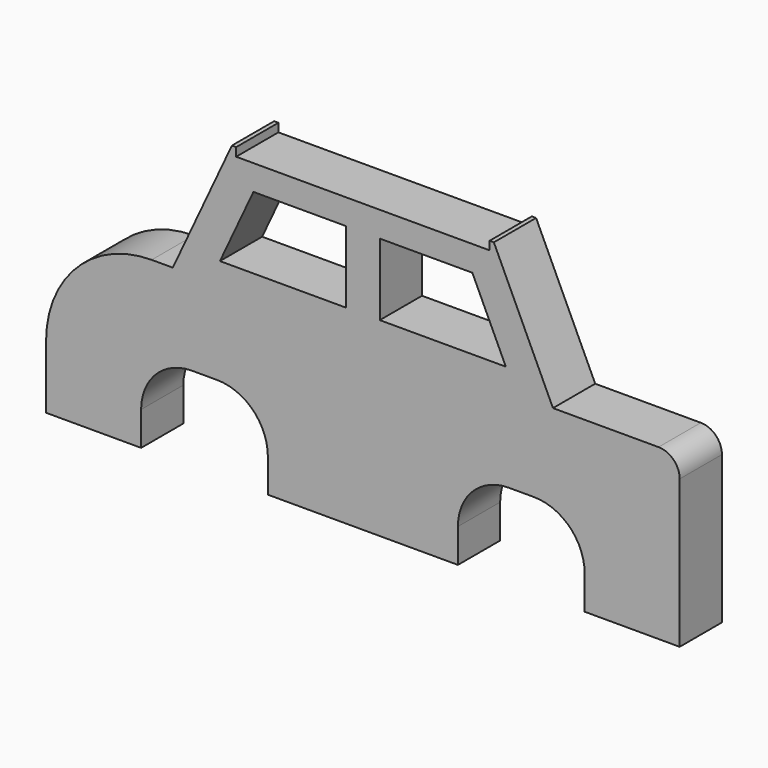
from build123d import *

# Parameters (mm, degrees)
F1_DEPTH = 3.175


with BuildPart() as f1:
    # F0 (on Front) → F1 (new body)
    with BuildSketch(Plane.XZ):
        with BuildLine():
            ThreePointArc((19.05, 3.81), (18.6780256121, 4.7080256121), (17.78, 5.08))
            Line((17.78, 5.08), (11.43, 5.08))
            Line((11.43, 5.08), (-11.43, 5.08))
            Line((-11.43, 5.08), (-12.7, 5.08))
            ThreePointArc((-12.7, 5.08), (-17.1901280605, 3.2201280605), (-19.05, -1.27))
            Line((-19.05, -1.27), (-19.05, -5.08))
            Line((-19.05, -5.08), (-13.335, -5.08))
            Line((-13.335, -5.08), (-13.335, -3.048))
            ThreePointArc((-13.335, -3.048), (-12.4422614691, -0.8927385309), (-10.287, 0))
            Line((-10.287, 0), (-8.763, 0))
            ThreePointArc((-8.763, 0), (-6.6077385309, -0.8927385309), (-5.715, -3.048))
            Line((-5.715, -3.048), (-5.715, -5.08))
            Line((-5.715, -5.08), (5.715, -5.08))
            Line((5.715, -5.08), (5.715, -3.048))
            ThreePointArc((5.715, -3.048), (6.6077385309, -0.8927385309), (8.763, 0))
            Line((8.763, 0), (10.287, 0))
            ThreePointArc((10.287, 0), (12.4422614691, -0.8927385309), (13.335, -3.048))
            Line((13.335, -3.048), (13.335, -5.08))
            Line((13.335, -5.08), (19.05, -5.08))
            Line((19.05, -5.08), (19.05, 3.81))
        make_face()
        Polygon((-11.43, 5.08), (11.43, 5.08), (7.8767356449, 12.7), (7.62, 12.7), (7.62, 12.192), (0, 12.192), (-7.62, 12.192), (-7.62, 12.7), (-7.8767356449, 12.7), align=None)
        Polygon((-1.016, 6.35), (-8.5957253428, 6.35), (-6.5822088749, 10.668), (-1.016, 10.668), align=None, mode=Mode.SUBTRACT)
        Polygon((8.5957253428, 6.35), (1.016, 6.35), (1.016, 10.668), (6.5822088749, 10.668), align=None, mode=Mode.SUBTRACT)
    extrude(amount=F1_DEPTH)


solid = f1.part
